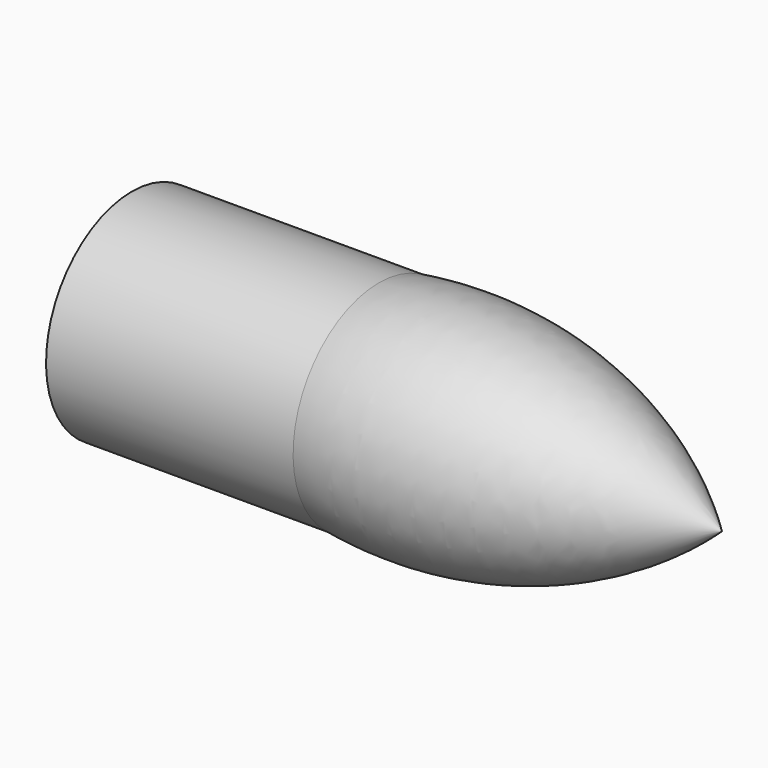
from build123d import *

# Parameters (mm, degrees)
F0_W = 51.880742
F0_H = 15.651196


with BuildPart() as f1:
    # F0 (on Front) → F1 (revolve)
    with BuildSketch(Plane.XZ):
        with BuildLine():
            ThreePointArc((0, 17.135363), (46.367634, 16.790954), (89.589618, 0))
            Line((89.589618, 0), (104.866459, 0))
            ThreePointArc((104.866459, 0), (56.181052, 28.380534), (0, 32.786559))
            Line((0, 32.786559), (0, 17.135363))
        make_face()
        with Locations((-25.940371, 24.960961)):
            Rectangle(F0_W, F0_H)
        Polygon((-75.52623, 16.865514), (-51.880742, 17.135363), (-51.880742, 32.786559), (-75.52623, 32.786559), align=None)
    revolve(axis=Axis((37.778754, 0, 0), (1, 0, 0)))


solid = f1.part
